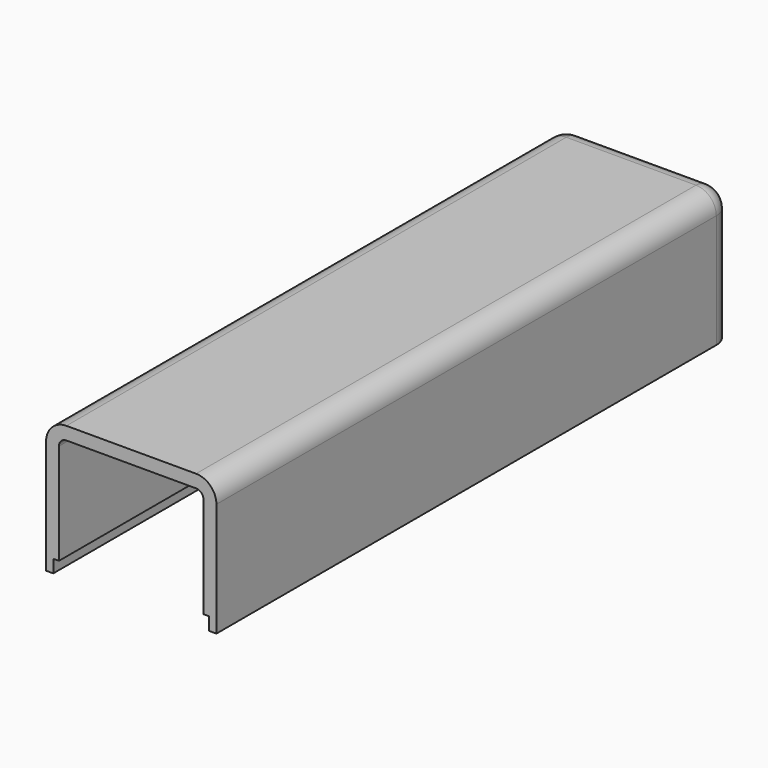
from build123d import *

# Parameters (mm, degrees)
F1_DEPTH = 33.02
F2_R     = 5
F3_T     = -3.175
F4_W     = 38.354
F4_H     = 201.6773819923
F5_DEPTH = 3.175


with BuildPart() as f1:
    # F0 (on Top) → F1 (new body)
    with BuildSketch(Plane.XY):
        with BuildLine():
            ThreePointArc((20.955, 74.375), (19.4905339059, 77.9105339059), (15.955, 79.375))
            Line((15.955, 79.375), (-15.955, 79.375))
            ThreePointArc((-15.955, 79.375), (-19.4905339059, 77.9105339059), (-20.955, 74.375))
            Line((-20.955, 74.375), (-20.955, -79.375))
            Line((-20.955, -79.375), (20.955, -79.375))
            Line((20.955, -79.375), (20.955, 74.375))
        make_face()
    extrude(amount=F1_DEPTH)

    # F2
    f2_edges = [f1.edges().sort_by_distance(p)[0] for p in [
        (-20.955, -2.5, 33.02),
        (0, 79.375, 33.02),
    ]]
    fillet(f2_edges, radius=F2_R)

    # F3
    f3_openings = [f1.faces().sort_by_distance(p)[0] for p in [
        (0, -79.375, 16.389713),
        (0, -0.126416, 0),
    ]]
    offset(amount=F3_T, openings=f3_openings)

    # F4 (on face) → F5 (cut)
    with BuildSketch(Plane(origin=(0, 0, 0), x_dir=(1, 0, 0), z_dir=(0, 0, -1))):
        Rectangle(F4_W, F4_H)
    extrude(amount=-F5_DEPTH, mode=Mode.SUBTRACT)


solid = f1.part
